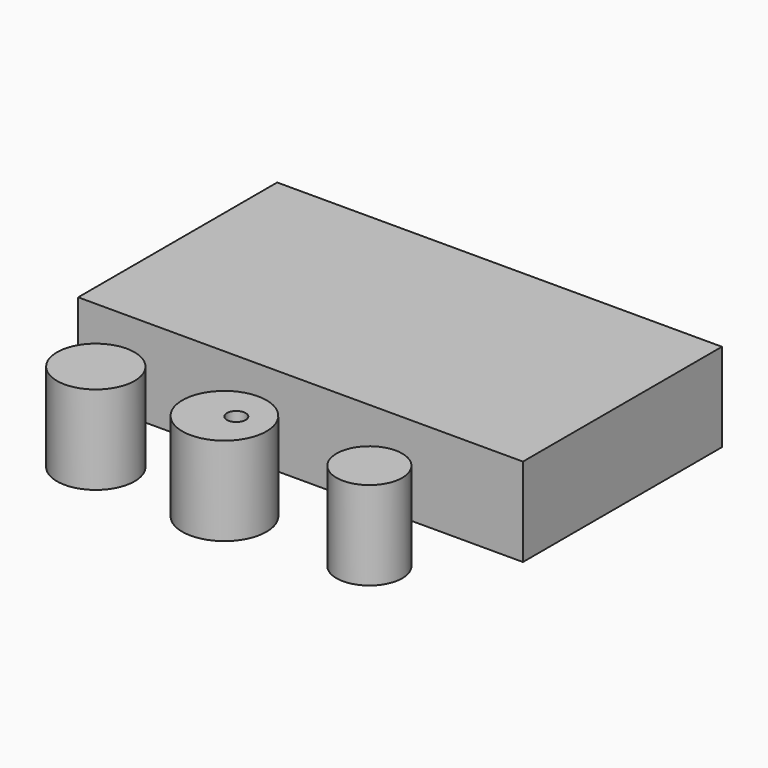
from build123d import *

# Parameters (mm, degrees)
F0_W     = 127.724581
F0_H     = 71.429251
F0_R     = 9.440193
F0_R_2   = 12.092903
F0_R_3   = 2.694243
F0_R_4   = 11.145553
F1_DEPTH = 25.4


with BuildPart() as f1:
    # F0 (on Top) → F1 (new body)
    with BuildSketch(Plane.XY):
        with Locations((-6.705481, 21.868136)):
            Rectangle(F0_W, F0_H)
        with Locations((31.504825, -36.90384)):
            Circle(F0_R)
        with Locations((-9.010378, -38.298972)):
            Circle(F0_R_2)
        with Locations((-6.705482, -36.90384)):
            Circle(F0_R_3, mode=Mode.SUBTRACT)
        with Locations((-46.476223, -37.643675)):
            Circle(F0_R_4)
    extrude(amount=F1_DEPTH)


solid = f1.part
